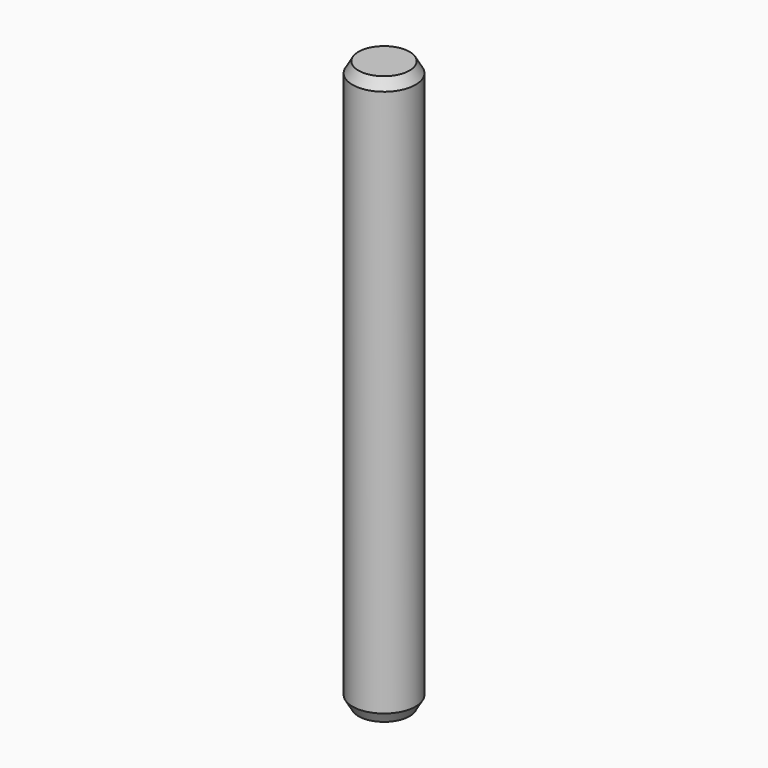
from build123d import *

# Parameters (mm, degrees)
F0_R     = 6
F1_DEPTH = 108
F2_SIZE2 = 1.154701
F2_SIZE  = 2


with BuildPart() as f1:
    # F0 (on Top) → F1 (new body)
    with BuildSketch(Plane.XY):
        Circle(F0_R)
    extrude(amount=F1_DEPTH)

    # F2
    f2_edges = [f1.edges().sort_by_distance(p)[0] for p in [
        (6, 0, 54),
        (-6, 0, 0),
        (-6, 0, 108),
    ]]
    chamfer(f2_edges, length=F2_SIZE, length2=F2_SIZE2)


solid = f1.part
